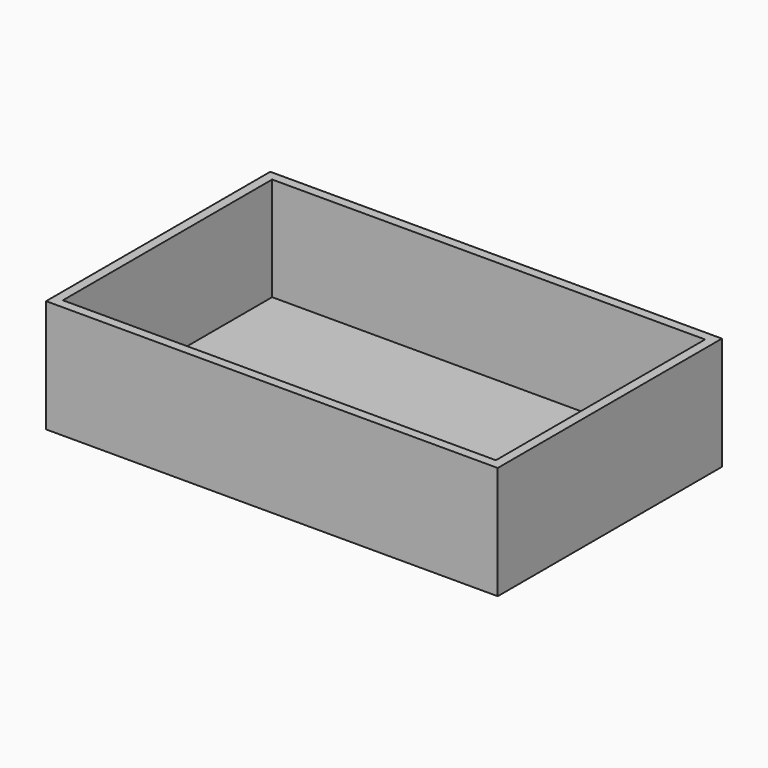
from build123d import *

# Parameters (mm, degrees)
F0_W     = 122.814625
F0_H     = 30.703664
F1_DEPTH = 76.2
F2_T     = -2.54


with BuildPart() as f1:
    # F0 (on Front) → F1 (new body)
    with BuildSketch(Plane.XZ):
        with Locations((-32.36334, 38.172156)):
            Rectangle(F0_W, F0_H)
        with Locations((-32.36334, 38.172156)):
            Rectangle(F0_W, F0_H)
    extrude(amount=F1_DEPTH)

    # F2
    f2_openings = [f1.faces().sort_by_distance(p)[0] for p in [
        (-32.36334, -38.1, 53.523988),
    ]]
    offset(amount=F2_T, openings=f2_openings)


solid = f1.part
